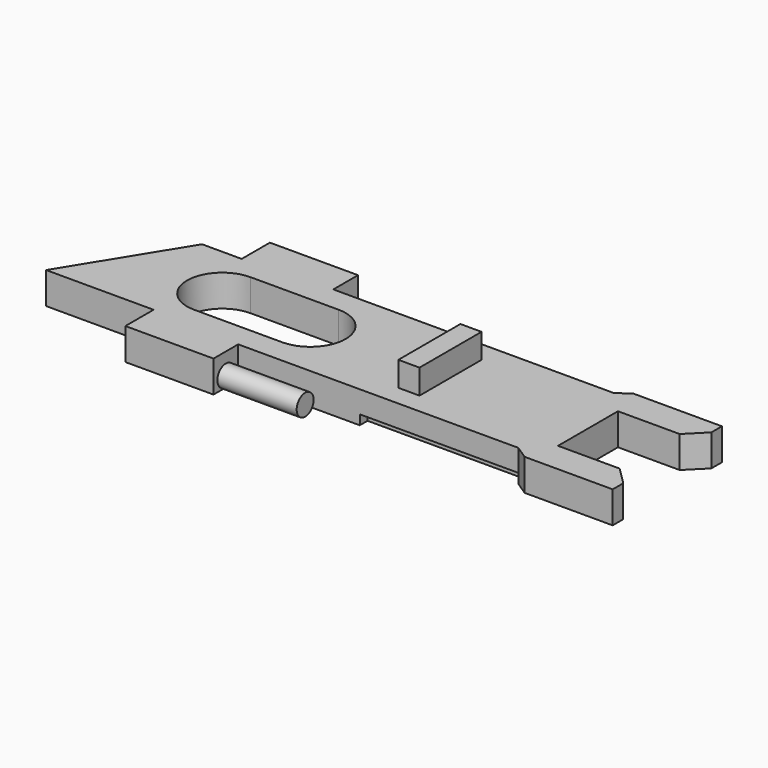
from build123d import *

# Parameters (mm, degrees)
F0_W     = 3.048
F0_H     = 11.176
F1_DEPTH = 4.572
F2_DEPTH = 8.128
F4_DEPTH = 11.43
F5_W     = 22.86
F5_H     = 1.397
F6_DEPTH = 1.397
F7_DEPTH = 1.397


with BuildPart() as f1:
    # F0 (on Top) → F1 (new body)
    with BuildSketch(Plane.XY):
        Polygon((18.642572, -9.8425), (31.342572, -9.8425), (31.342572, -7.9375), (28.802572, -5.3975), (19.912572, -5.3975), (19.912572, 5.3975), (28.802572, 5.3975), (31.342572, 7.9375), (31.342572, 9.8425), (18.642572, 9.8425), (16.737572, 8.5725), (-23.648428, 8.5725), (-23.648428, 13.0175), (-36.348428, 13.0175), (-36.348428, 7.9375), (-42.063428, 7.9375), (-51.842428, -7.9375), (-36.348428, -7.9375), (-36.348428, -13.0175), (-23.648428, -13.0175), (-23.648428, -8.5725), (16.737572, -8.5725), align=None)
        with BuildLine():
            Line((-32.792428, 5.08), (-20.092428, 5.08))
            ThreePointArc((-20.092428, 5.08), (-15.012428, 0), (-20.092428, -5.08))
            Line((-20.092428, -5.08), (-32.792428, -5.08))
            ThreePointArc((-32.792428, -5.08), (-37.872428, 0), (-32.792428, 5.08))
        make_face(mode=Mode.SUBTRACT)
        with Locations((-1.423428, 0)):
            Rectangle(F0_W, F0_H, mode=Mode.SUBTRACT)
    extrude(amount=F1_DEPTH)

    # F0 (on Top) → F2 (join)
    with BuildSketch(Plane.XY):
        with Locations((-1.423428, 0)):
            Rectangle(F0_W, F0_H)
    extrude(amount=F2_DEPTH)

    # F3 (on face) → F4 (join)
    with BuildSketch(Plane.YZ.offset(-23.648428)):
        with BuildLine():
            ThreePointArc((-10.733225, 0), (-9.69486, 0.467551), (-9.269748, 1.524))
            ThreePointArc((-9.269748, 1.524), (-11.851449, 2.62414), (-10.856775, 0))
            Line((-10.856775, 0), (-10.733225, 0))
        make_face()
    extrude(amount=F4_DEPTH)

    # F5 (on face) → F6 (cut)
    with BuildSketch(Plane(origin=(0, 0, 0), x_dir=(1, 0, 0), z_dir=(0, 0, -1))):
        with Locations((5.307572, 7.874)):
            Rectangle(F5_W, F5_H)
    extrude(amount=-F6_DEPTH, mode=Mode.SUBTRACT)

    # F5 (on face) → F7 (cut)
    with BuildSketch(Plane(origin=(0, 0, 0), x_dir=(1, 0, 0), z_dir=(0, 0, -1))):
        with Locations((5.307572, -7.874)):
            Rectangle(F5_W, F5_H)
    extrude(amount=-F7_DEPTH, mode=Mode.SUBTRACT)


solid = f1.part
